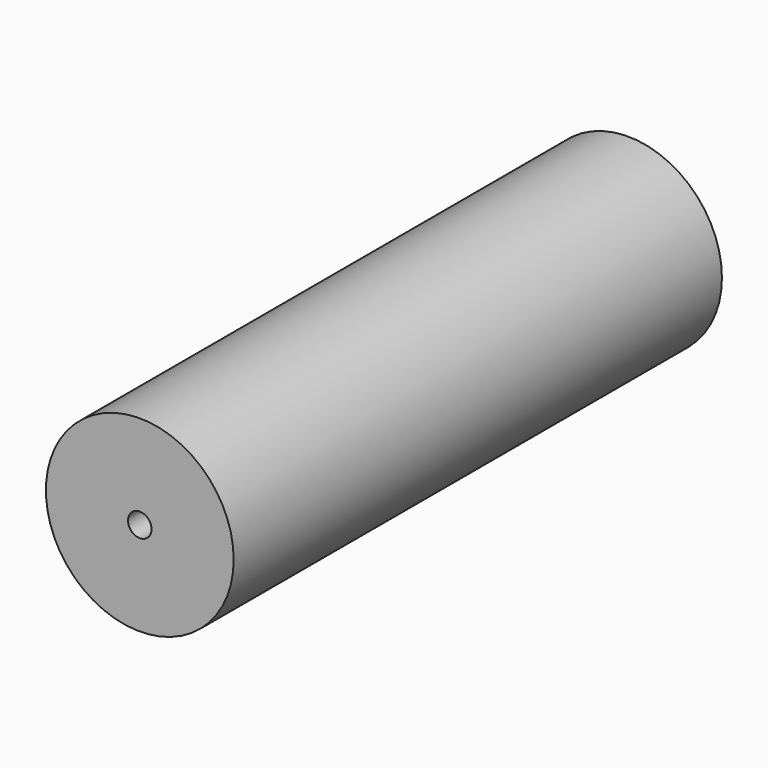
from build123d import *

# Parameters (mm, degrees)
F0_R     = 101.6
F1_DEPTH = 762
F2_R     = 12.7
F3_DEPTH = 762.001
F4_DEPTH = 101.6


with BuildPart() as f1:
    # F0 (on Front) → F1 (new body)
    with BuildSketch(Plane.XZ):
        Circle(F0_R)
    extrude(amount=F1_DEPTH)

    # F2 (on face) → F3 (cut, through all)
    with BuildSketch(Plane.XZ.offset(762)):
        Circle(F2_R)
    extrude(amount=-F3_DEPTH, mode=Mode.SUBTRACT)

    # F4 (cut): a face of the model
    f4_faces = [f1.faces().sort_by_distance(p)[0] for p in [
        (-98.7263180413, -762, 0),
    ]]
    extrude(f4_faces, amount=-F4_DEPTH, mode=Mode.SUBTRACT)


solid = f1.part
